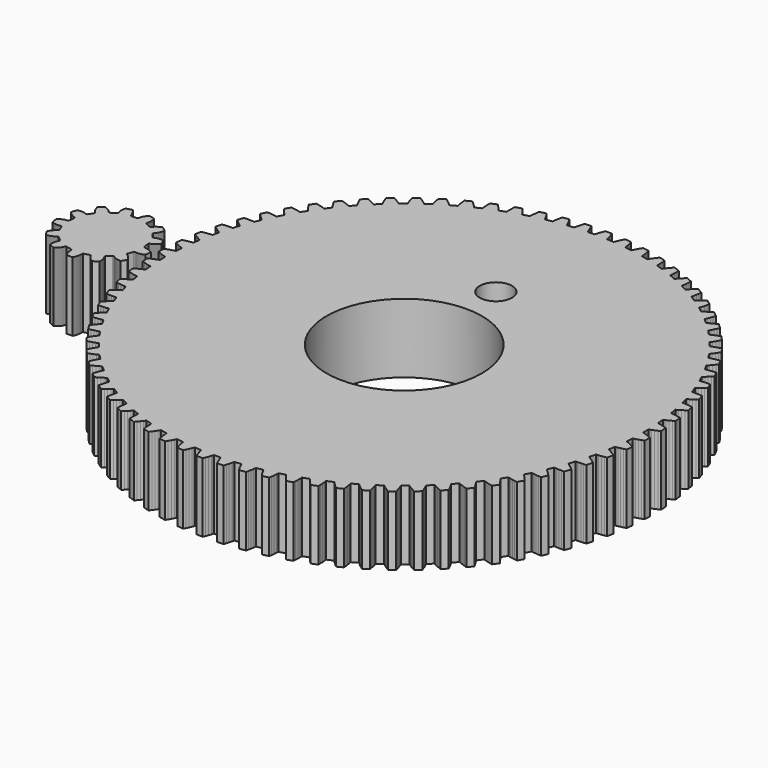
from build123d import *

# Parameters (mm, degrees)
F0_R     = 5.05
F1_DEPTH = 4.5
F3_DEPTH = 4.5


with BuildPart() as f1:
    # F0 (on Top) → F1 (new body)
    with BuildSketch(Plane.XY):
        Polygon((-12.401103, -0.027058), (-12.361855, -0.038794), (-12.354653, -0.473993), (-12.393498, -0.487012), (-12.432322, -0.500425), (-12.50989, -0.528361), (-12.664764, -0.588507), (-12.819233, -0.654066), (-12.973248, -0.724736), (-12.949089, -1.141734), (-12.787943, -1.194143), (-12.626939, -1.241421), (-12.466157, -1.283286), (-12.385872, -1.302072), (-12.345765, -1.310909), (-12.305678, -1.319363), (-12.262572, -1.752471), (-12.300204, -1.768661), (-12.337786, -1.785236), (-12.412789, -1.819475), (-12.562158, -1.892215), (-12.710688, -1.970298), (-12.85834, -2.053441), (-12.799831, -2.467026), (-12.634898, -2.505951), (-12.470551, -2.539766), (-12.30686, -2.568208), (-12.225293, -2.580308), (-12.18459, -2.585802), (-12.143947, -2.590913), (-12.065218, -3.018991), (-12.101386, -3.038231), (-12.137473, -3.057846), (-12.209395, -3.098165), (-12.35225, -3.182985), (-12.493821, -3.273077), (-12.6341, -3.368128), (-12.541635, -3.775461), (-12.374055, -3.80064), (-12.207476, -3.820769), (-12.041998, -3.835596), (-11.959713, -3.840919), (-11.918697, -3.84303), (-11.877762, -3.844767), (-11.763955, -4.264876), (-11.798406, -4.287036), (-11.832756, -4.309569), (-11.901093, -4.355696), (-12.036463, -4.452019), (-12.170106, -4.553484), (-12.302063, -4.659807), (-12.176277, -5.05811), (-12.007193, -5.069362), (-11.839513, -5.075664), (-11.673378, -5.076775), (-11.590932, -5.07529), (-11.549885, -5.074008), (-11.50895, -5.072361), (-11.360834, -5.481634), (-11.393345, -5.506571), (-11.425706, -5.531851), (-11.490013, -5.583462), (-11.616959, -5.690643), (-11.741765, -5.802804), (-11.86449, -5.91965), (-11.706243, -6.306208), (-11.536806, -6.30346), (-11.369186, -6.295896), (-11.203516, -6.283281), (-11.121484, -6.274989), (-11.08068, -6.270322), (-11.040017, -6.265303), (-10.858611, -6.66095), (-10.888951, -6.688483), (-10.91912, -6.716348), (-10.978942, -6.7731), (-11.096607, -6.890392), (-11.211727, -7.01247), (-11.324383, -7.139054), (-11.134755, -7.511229), (-10.966126, -7.494493), (-10.799688, -7.473111), (-10.635633, -7.446861), (-10.554571, -7.431822), (-10.514282, -7.423803), (-10.474185, -7.41544), (-10.260721, -7.794756), (-10.288688, -7.824702), (-10.316443, -7.854972), (-10.371377, -7.916461), (-10.478952, -8.043074), (-10.583598, -8.174243), (-10.685416, -8.309694), (-10.465701, -8.664941), (-10.299031, -8.634339), (-10.134936, -8.599281), (-9.973609, -8.559578), (-9.894051, -8.537894), (-9.85457, -8.526572), (-9.815291, -8.514926), (-9.571245, -8.875324), (-9.596636, -8.907473), (-9.621805, -8.939934), (-9.671467, -9.005746), (-9.768225, -9.140813), (-9.86168, -9.280173), (-9.951964, -9.423573), (-9.703656, -9.759458), (-9.540086, -9.7152), (-9.379446, -9.66671), (-9.221946, -9.613826), (-9.144459, -9.585637), (-9.106049, -9.571103), (-9.067871, -9.556246), (-8.794888, -9.895263), (-8.817532, -9.929391), (-8.839934, -9.963822), (-8.884, -10.033512), (-8.969265, -10.176103), (-9.050893, -10.322715), (-9.129026, -10.473074), (-8.853842, -10.787305), (-8.694484, -10.729695), (-8.538388, -10.668115), (-8.385798, -10.602394), (-8.310906, -10.567913), (-8.273819, -10.550248), (-8.236994, -10.53229), (-7.936954, -10.847602), (-7.956709, -10.883487), (-7.976192, -10.919645), (-8.01434, -10.992739), (-8.087545, -11.141886), (-8.15679, -11.294739), (-8.222238, -11.451037), (-7.922046, -11.741472), (-7.767981, -11.670893), (-7.617511, -11.596628), (-7.470869, -11.518535), (-7.399078, -11.477983), (-7.363587, -11.457319), (-7.328368, -11.436392), (-7.00331, -11.725847), (-7.020035, -11.763248), (-7.036458, -11.80089), (-7.068445, -11.876883), (-7.129085, -12.031564), (-7.185473, -12.189599), (-7.237791, -12.350785), (-6.914632, -12.615435), (-6.766929, -12.532373), (-6.623105, -12.445937), (-6.483412, -12.355997), (-6.415217, -12.309658), (-6.381544, -12.286135), (-6.348183, -12.26236), (-6.000329, -12.52399), (-6.013904, -12.562643), (-6.027175, -12.601507), (-6.052779, -12.679883), (-6.10043, -12.839049), (-6.143578, -13.001205), (-6.182402, -13.166148), (-5.838497, -13.403215), (-5.698157, -13.308235), (-5.561959, -13.210224), (-5.430164, -13.109053), (-5.366029, -13.05724), (-5.334426, -13.03102), (-5.303126, -13.004578), (-4.93486, -13.236575), (-4.945202, -13.276218), (-4.955212, -13.316052), (-4.97426, -13.396276), (-5.00861, -13.558826), (-5.038213, -13.723991), (-5.063282, -13.89159), (-4.700974, -14.099438), (-4.568957, -13.993196), (-4.441324, -13.884268), (-4.318336, -13.772562), (-4.258695, -13.715628), (-4.229365, -13.686884), (-4.200358, -13.657947), (-3.814194, -13.858755), (-3.821224, -13.899115), (-3.82791, -13.939636), (-3.840262, -14.021153), (-3.861068, -14.185985), (-3.876936, -14.353039), (-3.888086, -14.522123), (-3.509851, -14.699348), (-3.387055, -14.582572), (-3.268855, -14.463473), (-3.155513, -14.34199), (-3.100771, -14.280329), (-3.073915, -14.249262), (-3.047402, -14.218033), (-2.645968, -14.386258), (-2.649644, -14.427052), (-2.652957, -14.467998), (-2.658542, -14.550262), (-2.665663, -14.716245), (-2.667683, -14.884037), (-2.664835, -15.053464), (-2.273247, -15.198844), (-2.160521, -15.072331), (-2.052552, -14.943879), (-1.949633, -14.813458), (-1.900174, -14.747485), (-1.875974, -14.714296), (-1.852128, -14.680986), (-1.438179, -14.815488), (-1.438472, -14.856454), (-1.438392, -14.89752), (-1.437159, -14.979966), (-1.430554, -15.14598), (-1.418707, -15.313357), (-1.40188, -15.481977), (-0.999627, -15.594521), (-0.897728, -15.459121), (-0.800738, -15.322195), (-0.708939, -15.183724), (-0.665095, -15.113893), (-0.643724, -15.078825), (-0.622705, -15.043647), (-0.199061, -15.143506), (-0.19597, -15.18436), (-0.192506, -15.225285), (-0.184466, -15.307348), (-0.164176, -15.47224), (-0.138552, -15.638072), (-0.107848, -15.804722), (0.302323, -15.883674), (0.392688, -15.740325), (0.478043, -15.595854), (0.558096, -15.450273), (0.596011, -15.377058), (0.614423, -15.340345), (0.632462, -15.30356), (1.062904, -15.368089), (1.069358, -15.40854), (1.076195, -15.449041), (1.090982, -15.530164), (1.124817, -15.692814), (1.164055, -15.85597), (1.208414, -16.019509), (1.623696, -16.064323), (1.701921, -15.913994), (1.775055, -15.762969), (1.842806, -15.611277), (1.87456, -15.535184), (1.889872, -15.497066), (1.904809, -15.458919), (2.339109, -15.487683), (2.348886, -15.527477), (2.359037, -15.567271), (2.380469, -15.64689), (2.427626, -15.806197), (2.480206, -15.965545), (2.537918, -16.124872), (2.955482, -16.135235), (3.021021, -15.978968), (3.081429, -15.822418), (3.136434, -15.665645), (3.161785, -15.587179), (3.173905, -15.54794), (3.185641, -15.508691), (3.62083, -15.50149), (3.633859, -15.540335), (3.647261, -15.579159), (3.675198, -15.656727), (3.735354, -15.811601), (3.800903, -15.96607), (3.871572, -16.120085), (4.288571, -16.095926), (4.34099, -15.93478), (4.388258, -15.773776), (4.430123, -15.612994), (4.448919, -15.532709), (4.457746, -15.492602), (4.4662, -15.452515), (4.899318, -15.409408), (4.915508, -15.447041), (4.932072, -15.484623), (4.966322, -15.559626), (5.039052, -15.708995), (5.117135, -15.857525), (5.200288, -16.005177), (5.613863, -15.946668), (5.652788, -15.781735), (5.686613, -15.617388), (5.715055, -15.453697), (5.727144, -15.372129), (5.732639, -15.331436), (5.73776, -15.290784), (6.165828, -15.212054), (6.185068, -15.248223), (6.204682, -15.28431), (6.245012, -15.356232), (6.329832, -15.499086), (6.419913, -15.640658), (6.514975, -15.780937), (6.922308, -15.688471), (6.947477, -15.520902), (6.967606, -15.354313), (6.982433, -15.188835), (6.987756, -15.10655), (6.989867, -15.065534), (6.991604, -15.024598), (7.411723, -14.910792), (7.433883, -14.945253), (7.456406, -14.979593), (7.502532, -15.04794), (7.598866, -15.1833), (7.700331, -15.316943), (7.806643, -15.448899), (8.204957, -15.323114), (8.216199, -15.15403), (8.222511, -14.98635), (8.223622, -14.820215), (8.222127, -14.737768), (8.220845, -14.696722), (8.219198, -14.655787), (8.62848, -14.50767), (8.653407, -14.540182), (8.678698, -14.572543), (8.730309, -14.636849), (8.83748, -14.763796), (8.94964, -14.888602), (9.066487, -15.011327), (9.453055, -14.85308), (9.450297, -14.683653), (9.442732, -14.516023), (9.430128, -14.350353), (9.421825, -14.26832), (9.417159, -14.227516), (9.412139, -14.186854), (9.807787, -14.005448), (9.835319, -14.035788), (9.863195, -14.065957), (9.919937, -14.125779), (10.037228, -14.243444), (10.159307, -14.358564), (10.285901, -14.471219), (10.658065, -14.281592), (10.64133, -14.112962), (10.619958, -13.946524), (10.593708, -13.78247), (10.578669, -13.701408), (10.57064, -13.661129), (10.562277, -13.621022), (10.941603, -13.407558), (10.971539, -13.435525), (11.001809, -13.46328), (11.063298, -13.518214), (11.189911, -13.625789), (11.32108, -13.730435), (11.456541, -13.832253), (11.811778, -13.612538), (11.781175, -13.445867), (11.746128, -13.281773), (11.706415, -13.120445), (11.68473, -13.040888), (11.673418, -13.001407), (11.661773, -12.962138), (12.022161, -12.718082), (12.05431, -12.743473), (12.086771, -12.768642), (12.152583, -12.818304), (12.28765, -12.915062), (12.42701, -13.008517), (12.57042, -13.098801), (12.906295, -12.850503), (12.862037, -12.686923), (12.813557, -12.526283), (12.760663, -12.368783), (12.732484, -12.291296), (12.71794, -12.252886), (12.703093, -12.214708), (13.0421, -11.941725), (13.076238, -11.964379), (13.110659, -11.986771), (13.180359, -12.030837), (13.32295, -12.116101), (13.469552, -12.19773), (13.619921, -12.275863), (13.934152, -12.000679), (13.876531, -11.841321), (13.814952, -11.685225), (13.749231, -11.532635), (13.71475, -11.457743), (13.697085, -11.420656), (13.679137, -11.383831), (13.994439, -11.08379), (14.030334, -11.103546), (14.066492, -11.123029), (14.139586, -11.161177), (14.288733, -11.234381), (14.441576, -11.303627), (14.597883, -11.369075), (14.888309, -11.068883), (14.81773, -10.914828), (14.743475, -10.764348), (14.665382, -10.617706), (14.62483, -10.545915), (14.604166, -10.510424), (14.583228, -10.475205), (14.872684, -10.150146), (14.910085, -10.166872), (14.947727, -10.183295), (15.02372, -10.215291), (15.178401, -10.275922), (15.336446, -10.33231), (15.497622, -10.384628), (15.762272, -10.061468), (15.67921, -9.913766), (15.592774, -9.769942), (15.502843, -9.630249), (15.456495, -9.562054), (15.432972, -9.52838), (15.409206, -9.49502), (15.670827, -9.147166), (15.709479, -9.16074), (15.748354, -9.174012), (15.82673, -9.199615), (15.985886, -9.247267), (16.148042, -9.290414), (16.312995, -9.329239), (16.550052, -8.985334), (16.455082, -8.844994), (16.357061, -8.708796), (16.2559, -8.577011), (16.204086, -8.512866), (16.177857, -8.481263), (16.151415, -8.449963), (16.383422, -8.081697), (16.423065, -8.092039), (16.462899, -8.102048), (16.543113, -8.121097), (16.705673, -8.155447), (16.870838, -8.18505), (17.038427, -8.210128), (17.246275, -7.847811), (17.140033, -7.715794), (17.031115, -7.58816), (16.919409, -7.465173), (16.862475, -7.405532), (16.833731, -7.376202), (16.804794, -7.347195), (17.005592, -6.961031), (17.045952, -6.968061), (17.086473, -6.974747), (17.168, -6.987099), (17.332832, -7.007905), (17.499876, -7.023772), (17.66897, -7.034923), (17.846185, -6.656688), (17.729409, -6.533892), (17.610309, -6.415692), (17.488837, -6.30235), (17.427176, -6.247607), (17.396099, -6.220752), (17.364869, -6.194239), (17.533095, -5.792804), (17.573899, -5.796481), (17.614834, -5.799794), (17.697099, -5.805379), (17.863092, -5.812499), (18.030873, -5.81452), (18.200301, -5.811671), (18.34569, -5.420084), (18.219168, -5.307358), (18.090716, -5.199389), (17.960295, -5.09647), (17.894322, -5.04701), (17.861143, -5.022811), (17.827823, -4.998965), (17.962325, -4.585016), (18.00329, -4.585309), (18.044367, -4.585228), (18.126803, -4.583996), (18.292817, -4.577391), (18.460194, -4.565543), (18.628814, -4.548717), (18.741368, -4.146464), (18.605968, -4.044565), (18.469042, -3.947575), (18.330561, -3.855776), (18.260729, -3.811932), (18.225662, -3.79056), (18.190494, -3.769542), (18.290353, -3.345898), (18.331197, -3.342807), (18.372122, -3.339343), (18.454185, -3.331303), (18.619087, -3.311012), (18.784909, -3.285389), (18.951569, -3.254685), (19.030511, -2.844514), (18.887162, -2.754149), (18.742691, -2.668794), (18.59711, -2.588741), (18.523895, -2.550826), (18.487181, -2.532413), (18.450397, -2.514375), (18.514926, -2.083933), (18.555387, -2.077479), (18.595888, -2.070641), (18.677001, -2.055855), (18.839661, -2.02202), (19.002807, -1.982781), (19.166356, -1.938422), (19.211159, -1.523141), (19.060841, -1.444916), (18.909816, -1.371782), (18.758114, -1.304031), (18.68202, -1.272287), (18.643913, -1.256965), (18.605766, -1.242027), (18.63453, -0.807727), (18.674314, -0.79795), (18.714108, -0.7878), (18.793726, -0.766368), (18.953034, -0.719211), (19.112392, -0.66663), (19.271709, -0.608919), (19.282072, -0.191355), (19.125804, -0.125816), (18.969254, -0.065408), (18.812482, -0.010403), (18.734025, 0.014948), (18.694777, 0.027068), (18.655528, 0.038804), (18.648337, 0.473993), (18.687171, 0.487022), (18.725996, 0.500425), (18.803574, 0.528361), (18.958447, 0.588517), (19.112907, 0.654066), (19.266922, 0.724736), (19.242762, 1.141734), (19.081617, 1.194143), (18.920613, 1.241421), (18.759831, 1.283286), (18.679556, 1.302082), (18.639439, 1.310909), (18.599352, 1.319363), (18.556245, 1.752481), (18.593878, 1.768672), (18.63146, 1.785236), (18.706463, 1.819485), (18.855841, 1.892215), (19.004362, 1.970298), (19.152014, 2.053451), (19.093505, 2.467026), (18.928582, 2.505951), (18.764224, 2.539776), (18.600534, 2.568218), (18.518976, 2.580308), (18.478273, 2.585802), (18.437621, 2.590913), (18.358891, 3.018991), (18.395069, 3.038231), (18.431147, 3.057846), (18.503069, 3.098175), (18.645933, 3.182995), (18.787495, 3.273077), (18.927784, 3.368128), (18.835318, 3.775471), (18.667739, 3.80064), (18.50115, 3.820769), (18.335671, 3.835596), (18.253387, 3.840919), (18.212371, 3.84303), (18.171445, 3.844767), (18.057628, 4.264887), (18.09209, 4.287046), (18.12643, 4.309569), (18.194776, 4.355696), (18.330147, 4.45203), (18.46379, 4.553494), (18.595736, 4.659807), (18.469951, 5.05811), (18.300877, 5.069362), (18.133197, 5.075674), (17.967052, 5.076785), (17.884615, 5.07529), (17.843559, 5.074008), (17.802624, 5.072361), (17.654517, 5.481644), (17.687019, 5.506571), (17.719389, 5.531861), (17.783686, 5.583472), (17.910633, 5.690643), (18.035449, 5.802804), (18.158174, 5.91965), (17.999927, 6.306208), (17.830489, 6.30346), (17.66286, 6.295896), (17.4972, 6.283291), (17.415167, 6.274989), (17.374353, 6.270322), (17.333701, 6.265303), (17.152295, 6.66095), (17.182635, 6.688483), (17.212794, 6.716359), (17.272616, 6.7731), (17.390281, 6.890392), (17.505401, 7.01247), (17.618056, 7.139064), (17.428429, 7.511229), (17.259799, 7.494493), (17.093371, 7.473121), (16.929317, 7.446871), (16.848244, 7.431822), (16.807965, 7.423803), (16.767858, 7.41544), (16.554405, 7.794766), (16.582362, 7.824702), (16.610127, 7.854972), (16.66505, 7.916461), (16.772626, 8.043074), (16.877272, 8.174243), (16.97909, 8.309704), (16.759374, 8.664942), (16.592704, 8.634339), (16.42861, 8.599291), (16.267282, 8.559578), (16.187735, 8.537894), (16.148254, 8.526582), (16.108975, 8.514936), (15.864918, 8.875325), (15.89031, 8.907473), (15.915479, 8.939934), (15.965141, 9.005746), (16.061899, 9.140813), (16.155354, 9.280173), (16.245638, 9.423573), (15.99734, 9.759458), (15.83377, 9.7152), (15.673119, 9.66672), (15.51563, 9.613826), (15.438133, 9.585647), (15.399722, 9.571103), (15.361545, 9.556256), (15.088562, 9.895263), (15.111216, 9.929401), (15.133618, 9.963822), (15.177674, 10.033522), (15.262948, 10.176114), (15.344576, 10.322715), (15.42271, 10.473084), (15.147515, 10.787315), (14.988158, 10.729695), (14.832072, 10.668115), (14.679471, 10.602394), (14.60458, 10.567913), (14.567503, 10.550248), (14.530678, 10.5323), (14.230627, 10.847602), (14.250383, 10.883497), (14.269866, 10.919655), (14.308024, 10.992749), (14.381228, 11.141896), (14.450474, 11.294739), (14.515922, 11.451047), (14.21572, 11.741472), (14.061664, 11.670893), (13.911195, 11.596638), (13.764553, 11.518545), (13.692752, 11.477994), (13.65726, 11.457329), (13.622042, 11.436392), (13.296983, 11.725848), (13.313709, 11.763248), (13.330142, 11.800891), (13.362128, 11.876883), (13.422769, 12.031564), (13.479147, 12.189609), (13.531465, 12.350785), (13.208315, 12.615435), (13.060613, 12.532373), (12.916779, 12.445937), (12.777086, 12.356007), (12.708891, 12.309658), (12.675227, 12.286135), (12.641857, 12.26237), (12.294003, 12.52399), (12.307587, 12.562643), (12.320849, 12.601518), (12.346452, 12.679894), (12.394114, 12.839049), (12.437251, 13.001205), (12.476086, 13.166158), (12.13217, 13.403215), (11.991831, 13.308245), (11.855632, 13.210224), (11.723848, 13.109063), (11.659713, 13.05725), (11.6281, 13.03102), (11.59681, 13.004578), (11.228544, 13.236585), (11.238886, 13.276228), (11.248895, 13.316052), (11.267934, 13.396276), (11.302284, 13.558836), (11.331887, 13.724001), (11.356965, 13.891591), (10.994658, 14.099438), (10.862641, 13.993197), (10.734997, 13.884278), (10.61202, 13.772572), (10.552369, 13.715638), (10.523038, 13.686894), (10.494041, 13.657957), (10.107868, 13.858755), (10.114897, 13.899115), (10.121584, 13.939636), (10.133936, 14.021163), (10.154752, 14.185995), (10.170619, 14.353039), (10.181759, 14.522133), (9.803525, 14.699348), (9.680739, 14.582572), (9.562528, 14.463473), (9.449186, 14.342), (9.394454, 14.280329), (9.367588, 14.249262), (9.341076, 14.218033), (8.939651, 14.386258), (8.943328, 14.427062), (8.946641, 14.467998), (8.952216, 14.550262), (8.959346, 14.716245), (8.961356, 14.884037), (8.958508, 15.053464), (8.566931, 15.198854), (8.454195, 15.072331), (8.346236, 14.943879), (8.243307, 14.813458), (8.193857, 14.747485), (8.169648, 14.714296), (8.145812, 14.680986), (7.731853, 14.815488), (7.732146, 14.856454), (7.732075, 14.89752), (7.730843, 14.979967), (7.724238, 15.14598), (7.71239, 15.313357), (7.695554, 15.481977), (7.293301, 15.594521), (7.191412, 15.459131), (7.094422, 15.322205), (7.002613, 15.183724), (6.958779, 15.113893), (6.937397, 15.078825), (6.916389, 15.043657), (6.492745, 15.143516), (6.489654, 15.18436), (6.48618, 15.225285), (6.47815, 15.307348), (6.457859, 15.472251), (6.432225, 15.638072), (6.401521, 15.804732), (5.99136, 15.883674), (5.900986, 15.740325), (5.815641, 15.595854), (5.735588, 15.450273), (5.697662, 15.377058), (5.67925, 15.340345), (5.661222, 15.30356), (5.23077, 15.368089), (5.224316, 15.40855), (5.217478, 15.449051), (5.202702, 15.530164), (5.168857, 15.692825), (5.129618, 15.85597), (5.085269, 16.019519), (4.669977, 16.064323), (4.591763, 15.914004), (4.518629, 15.762979), (4.450868, 15.611277), (4.419124, 15.535184), (4.403802, 15.497076), (4.388874, 15.458929), (3.954564, 15.487693), (3.944797, 15.527477), (3.934637, 15.567271), (3.913205, 15.64689), (3.866048, 15.806197), (3.813477, 15.965555), (3.755766, 16.124872), (3.338191, 16.135235), (3.272652, 15.978968), (3.212244, 15.822418), (3.15725, 15.665645), (3.131889, 15.587189), (3.119779, 15.54794), (3.108043, 15.508691), (2.672844, 15.5015), (2.659825, 15.540335), (2.646412, 15.579159), (2.618475, 15.656737), (2.55833, 15.811611), (2.492771, 15.96607), (2.422101, 16.120085), (2.005102, 16.095926), (1.952694, 15.93478), (1.905415, 15.773776), (1.863551, 15.612994), (1.844765, 15.532719), (1.835928, 15.492602), (1.827474, 15.452515), (1.394366, 15.409408), (1.378175, 15.447041), (1.361601, 15.484623), (1.327362, 15.559626), (1.254622, 15.709005), (1.176539, 15.857525), (1.093396, 16.005177), (0.679811, 15.946668), (0.640885, 15.781745), (0.607071, 15.617388), (0.578629, 15.453697), (0.566529, 15.372139), (0.561035, 15.331436), (0.555924, 15.290784), (0.127846, 15.212054), (0.108605, 15.248223), (0.088991, 15.28431), (0.048672, 15.356232), (-0.036148, 15.499086), (-0.12623, 15.640658), (-0.221291, 15.780937), (-0.628624, 15.688471), (-0.653803, 15.520902), (-0.673933, 15.354313), (-0.688759, 15.188835), (-0.694082, 15.10655), (-0.696193, 15.065534), (-0.69793, 15.024609), (-1.11804, 14.910792), (-1.140199, 14.945253), (-1.162732, 14.979593), (-1.208859, 15.04794), (-1.305183, 15.1833), (-1.406647, 15.316953), (-1.51297, 15.448899), (-1.911274, 15.323114), (-1.922525, 15.15403), (-1.928827, 14.98635), (-1.929938, 14.820215), (-1.928454, 14.737779), (-1.927171, 14.696722), (-1.925525, 14.655787), (-2.334797, 14.50768), (-2.359734, 14.540182), (-2.385014, 14.572553), (-2.436625, 14.636849), (-2.543806, 14.763796), (-2.655957, 14.888612), (-2.772814, 15.011337), (-3.159371, 14.85308), (-3.156624, 14.683653), (-3.149059, 14.516023), (-3.136444, 14.350363), (-3.128152, 14.268331), (-3.123486, 14.227517), (-3.118466, 14.186864), (-3.514113, 14.005458), (-3.541636, 14.035798), (-3.569512, 14.065957), (-3.626254, 14.125779), (-3.743555, 14.243444), (-3.865634, 14.358564), (-3.992217, 14.471219), (-4.364392, 14.281592), (-4.347656, 14.112962), (-4.326274, 13.946535), (-4.300025, 13.78248), (-4.284986, 13.701408), (-4.276966, 13.661129), (-4.268603, 13.621022), (-4.647919, 13.407558), (-4.677866, 13.435525), (-4.708135, 13.46329), (-4.769624, 13.518214), (-4.896238, 13.625789), (-5.027406, 13.730435), (-5.162857, 13.832253), (-5.518105, 13.612538), (-5.487502, 13.445867), (-5.452445, 13.281773), (-5.412742, 13.120445), (-5.391057, 13.040898), (-5.379735, 13.001417), (-5.368089, 12.962138), (-5.728488, 12.718082), (-5.760636, 12.743473), (-5.793087, 12.768642), (-5.858909, 12.818304), (-5.993966, 12.915062), (-6.133336, 13.008517), (-6.276736, 13.098801), (-6.612622, 12.850503), (-6.568353, 12.686933), (-6.519873, 12.526283), (-6.46698, 12.368783), (-6.438801, 12.291296), (-6.424267, 12.252886), (-6.40941, 12.214708), (-6.748426, 11.941725), (-6.782554, 11.964379), (-6.816985, 11.986781), (-6.886675, 12.030837), (-7.029267, 12.116112), (-7.175868, 12.19774), (-7.326237, 12.275873), (-7.640468, 12.000679), (-7.582858, 11.841321), (-7.521268, 11.685235), (-7.455557, 11.532635), (-7.421066, 11.457743), (-7.403411, 11.420666), (-7.385453, 11.383841), (-7.700765, 11.083791), (-7.736651, 11.103546), (-7.772809, 11.123029), (-7.845902, 11.161187), (-7.995049, 11.234392), (-8.147892, 11.303637), (-8.3042, 11.369085), (-8.594635, 11.068883), (-8.524057, 10.914828), (-8.449791, 10.764358), (-8.371698, 10.617706), (-8.331147, 10.545915), (-8.310482, 10.510424), (-8.289555, 10.475205), (-8.579011, 10.150147), (-8.616401, 10.166872), (-8.654044, 10.183305), (-8.730046, 10.215292), (-8.884728, 10.275932), (-9.042762, 10.33231), (-9.203948, 10.384628), (-9.468599, 10.061479), (-9.385536, 9.913776), (-9.2991, 9.769942), (-9.20916, 9.630249), (-9.162821, 9.562054), (-9.139298, 9.528391), (-9.115523, 9.49502), (-9.377153, 9.147166), (-9.415806, 9.160751), (-9.454671, 9.174012), (-9.533047, 9.199615), (-9.692213, 9.247267), (-9.854368, 9.290414), (-10.019311, 9.329239), (-10.256378, 8.985334), (-10.161398, 8.844994), (-10.063387, 8.708796), (-9.962216, 8.577011), (-9.910403, 8.512866), (-9.884183, 8.481263), (-9.857741, 8.449973), (-10.089738, 8.081707), (-10.129381, 8.092049), (-10.169215, 8.102048), (-10.24944, 8.121097), (-10.411989, 8.155447), (-10.577154, 8.18505), (-10.744744, 8.210128), (-10.952602, 7.847821), (-10.84636, 7.715804), (-10.737431, 7.58816), (-10.625725, 7.465173), (-10.568792, 7.405532), (-10.540047, 7.376202), (-10.51111, 7.347205), (-10.711909, 6.961031), (-10.752268, 6.968061), (-10.792799, 6.974747), (-10.874317, 6.987099), (-11.039149, 7.007915), (-11.206203, 7.023772), (-11.375287, 7.034923), (-11.552511, 6.656688), (-11.435735, 6.533902), (-11.316636, 6.415692), (-11.195153, 6.30235), (-11.133493, 6.247618), (-11.102425, 6.220752), (-11.071186, 6.194239), (-11.239411, 5.792815), (-11.280215, 5.796481), (-11.321161, 5.799804), (-11.403415, 5.805379), (-11.569409, 5.81251), (-11.7372, 5.81452), (-11.906627, 5.811671), (-12.052007, 5.420094), (-11.925484, 5.307358), (-11.797042, 5.199389), (-11.666611, 5.09647), (-11.600638, 5.04701), (-11.567459, 5.022811), (-11.53415, 4.998965), (-11.668641, 4.585016), (-11.709617, 4.585309), (-11.750683, 4.585238), (-11.83313, 4.584006), (-11.999143, 4.577401), (-12.166521, 4.565553), (-12.33514, 4.548717), (-12.447684, 4.146464), (-12.312284, 4.044575), (-12.175358, 3.947575), (-12.036887, 3.855776), (-11.967056, 3.811942), (-11.931989, 3.79056), (-11.89681, 3.769552), (-11.996669, 3.345908), (-12.037523, 3.342817), (-12.078449, 3.339343), (-12.160511, 3.331313), (-12.325404, 3.311022), (-12.491236, 3.285389), (-12.657886, 3.254685), (-12.736837, 2.844524), (-12.593488, 2.754149), (-12.449018, 2.668804), (-12.303436, 2.588751), (-12.230221, 2.550826), (-12.193508, 2.532413), (-12.156714, 2.514375), (-12.221253, 2.083933), (-12.261703, 2.077479), (-12.302204, 2.070641), (-12.383317, 2.055855), (-12.545978, 2.02202), (-12.709133, 1.982782), (-12.872672, 1.938432), (-12.917486, 1.523141), (-12.767158, 1.444916), (-12.616132, 1.371792), (-12.46444, 1.304031), (-12.388347, 1.272287), (-12.35023, 1.256965), (-12.312082, 1.242037), (-12.340847, 0.807727), (-12.380641, 0.797961), (-12.420435, 0.7878), (-12.500053, 0.766368), (-12.65936, 0.719211), (-12.818708, 0.66664), (-12.978035, 0.608929), (-12.988398, 0.191355), (-12.832131, 0.125816), (-12.675581, 0.065408), (-12.518799, 0.010413), (-12.440342, -0.014948), align=None)
        with Locations((3.146842, 0)):
            Circle(F0_R, mode=Mode.SUBTRACT)
        Polygon((-13.87236, 0.139239), (-13.884531, 0.165751), (-13.936798, 0.523705), (-13.932718, 0.552591), (-13.924961, 0.565186), (-13.916558, 0.574892), (-13.907781, 0.583033), (-13.898762, 0.590103), (-13.88954, 0.596395), (-13.870694, 0.607202), (-13.851393, 0.616221), (-13.831748, 0.623847), (-13.791904, 0.636906), (-13.75317, 0.654268), (-13.715366, 0.675044), (-13.678299, 0.698445), (-13.641929, 0.724119), (-13.606225, 0.751854), (-13.571178, 0.781498), (-13.536788, 0.812939), (-13.503084, 0.846087), (-13.470067, 0.880882), (-13.437747, 0.917262), (-13.406164, 0.955167), (-13.553857, 1.317919), (-13.602943, 1.322989), (-13.651473, 1.326443), (-13.699408, 1.328281), (-13.746686, 1.328453), (-13.793247, 1.326938), (-13.83903, 1.323666), (-13.883955, 1.318575), (-13.92792, 1.311546), (-13.970795, 1.302405), (-14.012356, 1.290851), (-14.052211, 1.276226), (-14.089843, 1.257743), (-14.109225, 1.249471), (-14.129334, 1.242452), (-14.150373, 1.237018), (-14.161362, 1.235078), (-14.172764, 1.233846), (-14.184723, 1.233533), (-14.19752, 1.234604), (-14.211862, 1.238199), (-14.23496, 1.256026), (-14.447596, 1.548684), (-14.457403, 1.576166), (-14.456393, 1.590912), (-14.453464, 1.603415), (-14.449474, 1.614697), (-14.444768, 1.625161), (-14.439536, 1.635008), (-14.42787, 1.65334), (-14.414973, 1.670288), (-14.401115, 1.686175), (-14.371906, 1.716253), (-14.345676, 1.749633), (-14.321851, 1.785599), (-14.299913, 1.823545), (-14.279643, 1.863177), (-14.260907, 1.904335), (-14.243656, 1.946866), (-14.22782, 1.99068), (-14.213387, 2.035705), (-14.200317, 2.081852), (-14.188601, 2.12908), (-14.178249, 2.177328), (-14.477613, 2.429888), (-14.523426, 2.411567), (-14.568008, 2.392074), (-14.611296, 2.371419), (-14.653242, 2.349603), (-14.693773, 2.326626), (-14.732789, 2.302457), (-14.7702, 2.277065), (-14.805863, 2.250411), (-14.839577, 2.222394), (-14.871018, 2.192851), (-14.8995, 2.16138), (-14.924235, 2.127525), (-14.937557, 2.111193), (-14.952091, 2.095629), (-14.9682, 2.081034), (-14.977027, 2.074217), (-14.986552, 2.067824), (-14.996995, 2.061996), (-15.008832, 2.056996), (-15.023195, 2.053512), (-15.051929, 2.058562), (-15.37622, 2.218889), (-15.397672, 2.238655), (-15.403631, 2.252189), (-15.406843, 2.264622), (-15.40856, 2.276459), (-15.409257, 2.287913), (-15.409196, 2.299063), (-15.407388, 2.320717), (-15.403843, 2.341725), (-15.398955, 2.362218), (-15.387067, 2.402437), (-15.379361, 2.44417), (-15.374978, 2.487095), (-15.37318, 2.530888), (-15.373654, 2.575409), (-15.37619, 2.620546), (-15.380684, 2.666228), (-15.387027, 2.712385), (-15.395157, 2.758956), (-15.405035, 2.805901), (-15.41662, 2.853159), (-15.429871, 2.90069), (-15.812318, 2.985207), (-15.844365, 2.947685), (-15.874776, 2.909709), (-15.903511, 2.871299), (-15.930518, 2.832495), (-15.955717, 2.793306), (-15.979038, 2.753775), (-16.00037, 2.71391), (-16.01956, 2.673733), (-16.036386, 2.633252), (-16.050496, 2.592488), (-16.061091, 2.551391), (-16.067262, 2.509911), (-16.071463, 2.489256), (-16.077099, 2.468723), (-16.084583, 2.448321), (-16.089229, 2.43818), (-16.094693, 2.428091), (-16.101228, 2.418071), (-16.109389, 2.408153), (-16.120489, 2.398386), (-16.148284, 2.389508), (-16.509925, 2.380762), (-16.538114, 2.388296), (-16.549678, 2.397508), (-16.558304, 2.407022), (-16.565323, 2.416718), (-16.571262, 2.426525), (-16.576393, 2.436433), (-16.584846, 2.456451), (-16.591472, 2.476692), (-16.596673, 2.497114), (-16.604834, 2.538241), (-16.617409, 2.578783), (-16.633468, 2.618829), (-16.652234, 2.658441), (-16.673343, 2.697639), (-16.696573, 2.736433), (-16.721772, 2.774793), (-16.74884, 2.812709), (-16.777686, 2.850169), (-16.808248, 2.887146), (-16.840457, 2.923607), (-16.874282, 2.959532), (-17.252194, 2.856644), (-17.263142, 2.808527), (-17.272424, 2.760764), (-17.280019, 2.713405), (-17.285898, 2.666491), (-17.289998, 2.620081), (-17.292271, 2.574238), (-17.292634, 2.52903), (-17.290948, 2.484529), (-17.287049, 2.440877), (-17.280595, 2.398215), (-17.270879, 2.356896), (-17.257062, 2.317314), (-17.251194, 2.297073), (-17.246639, 2.276267), (-17.243781, 2.254724), (-17.243185, 2.243584), (-17.243326, 2.23212), (-17.244467, 2.220202), (-17.247073, 2.207628), (-17.252376, 2.193821), (-17.272848, 2.173045), (-17.589009, 1.997235), (-17.61746, 1.990811), (-17.631984, 1.993589), (-17.644044, 1.998012), (-17.65476, 2.003335), (-17.664577, 2.009254), (-17.673727, 2.015637), (-17.690524, 2.029433), (-17.705795, 2.04428), (-17.719884, 2.059946), (-17.746225, 2.092579), (-17.776202, 2.122626), (-17.809027, 2.150613), (-17.844054, 2.176974), (-17.880959, 2.201871), (-17.919561, 2.225424), (-17.959699, 2.247684), (-18.001291, 2.268682), (-18.044236, 2.288448), (-18.088484, 2.306981), (-18.133954, 2.324293), (-18.180596, 2.340392), (-18.467406, 2.073651), (-18.45473, 2.025969), (-18.440752, 1.979358), (-18.42547, 1.933897), (-18.408876, 1.889629), (-18.390939, 1.846623), (-18.371648, 1.804971), (-18.350963, 1.764773), (-18.328793, 1.726161), (-18.305048, 1.689316), (-18.279505, 1.654552), (-18.2517, 1.622474), (-18.221077, 1.593841), (-18.206472, 1.57865), (-18.192766, 1.562339), (-18.180222, 1.544593), (-18.174526, 1.535008), (-18.169324, 1.524787), (-18.164789, 1.513717), (-18.161254, 1.501365), (-18.159537, 1.48668), (-18.168011, 1.458763), (-18.366254, 1.156167), (-18.388464, 1.13725), (-18.402614, 1.132968), (-18.41534, 1.131281), (-18.427309, 1.131008), (-18.438752, 1.131695), (-18.449822, 1.133089), (-18.471102, 1.137502), (-18.491524, 1.143552), (-18.51128, 1.150875), (-18.549771, 1.16752), (-18.590272, 1.180205), (-18.632349, 1.18973), (-18.675617, 1.196789), (-18.719865, 1.201688), (-18.764982, 1.204607), (-18.810876, 1.205657), (-18.857458, 1.20492), (-18.904665, 1.202466), (-18.952458, 1.198314), (-19.000766, 1.192517), (-19.049549, 1.185084), (-19.179547, 0.815626), (-19.146166, 0.779286), (-19.112129, 0.744511), (-19.077466, 0.711353), (-19.042197, 0.679871), (-19.006342, 0.650127), (-18.969901, 0.62221), (-18.932894, 0.596233), (-18.895322, 0.572347), (-18.857175, 0.550763), (-18.818401, 0.531836), (-18.77888, 0.516363), (-18.738449, 0.505242), (-18.718461, 0.498576), (-18.698746, 0.490507), (-18.679395, 0.480619), (-18.66989, 0.474781), (-18.660538, 0.468145), (-18.651377, 0.460449), (-18.642509, 0.451157), (-18.634157, 0.438956), (-18.628682, 0.410302), (-18.663598, 0.050237), (-18.674476, 0.023169), (-18.68502, 0.012797), (-18.695504, 0.005383), (-18.705968, -0.000414), (-18.716421, -0.005131), (-18.726875, -0.009029), (-18.747772, -0.015019), (-18.768658, -0.01915), (-18.789555, -0.021856), (-18.831369, -0.024997), (-18.873133, -0.032593), (-18.914815, -0.043713), (-18.956407, -0.05756), (-18.997868, -0.073791), (-19.039167, -0.092173), (-19.080294, -0.112564), (-19.121199, -0.134865), (-19.161861, -0.158984), (-19.202251, -0.18487), (-19.242328, -0.212454), (-19.282072, -0.241703), (-19.225481, -0.62926), (-19.179031, -0.645925), (-19.132743, -0.660893), (-19.086637, -0.674145), (-19.040772, -0.685628), (-18.995201, -0.695304), (-18.949963, -0.703091), (-18.90513, -0.708889), (-18.86076, -0.712585), (-18.816946, -0.713969), (-18.773819, -0.712707), (-18.731632, -0.70804), (-18.690666, -0.699102), (-18.66987, -0.695708), (-18.64866, -0.693698), (-18.626935, -0.693456), (-18.615805, -0.694213), (-18.604442, -0.695738), (-18.592757, -0.698304), (-18.580586, -0.702404), (-18.567517, -0.709333), (-18.549357, -0.732159), (-18.412936, -1.067206), (-18.409987, -1.096234), (-18.414502, -1.110313), (-18.42034, -1.121746), (-18.426915, -1.131745), (-18.433985, -1.140775), (-18.441418, -1.149087), (-18.457144, -1.164096), (-18.473718, -1.177468), (-18.490969, -1.189568), (-18.526531, -1.211788), (-18.559982, -1.237917), (-18.591727, -1.267136), (-18.622107, -1.298729), (-18.651276, -1.332362), (-18.679314, -1.367843), (-18.70624, -1.405011), (-18.732106, -1.443765), (-18.756902, -1.484013), (-18.780627, -1.525696), (-18.803301, -1.568752), (-18.824895, -1.613121), (-18.594676, -1.929989), (-18.545812, -1.923151), (-18.497857, -1.914899), (-18.450882, -1.905203), (-18.404937, -1.894063), (-18.360093, -1.881448), (-18.316421, -1.867318), (-18.274021, -1.851623), (-18.233015, -1.834271), (-18.193574, -1.815142), (-18.155982, -1.793982), (-18.120794, -1.770247), (-18.088676, -1.74329), (-18.071829, -1.730615), (-18.053992, -1.71898), (-18.034863, -1.708667), (-18.024662, -1.704163), (-18.013885, -1.700234), (-18.002341, -1.697073), (-17.989655, -1.695053), (-17.974879, -1.695113), (-17.948185, -1.70689), (-17.671687, -1.940159), (-17.655588, -1.96449), (-17.653043, -1.979055), (-17.652901, -1.991902), (-17.654073, -2.00381), (-17.656133, -2.015091), (-17.65886, -2.025898), (-17.665799, -2.046492), (-17.674263, -2.066036), (-17.683918, -2.084771), (-17.705078, -2.12097), (-17.722551, -2.159653), (-17.737085, -2.200275), (-17.749306, -2.242372), (-17.759497, -2.285711), (-17.767839, -2.330151), (-17.774414, -2.375571), (-17.779303, -2.421909), (-17.782545, -2.469076), (-17.784191, -2.517011), (-17.784252, -2.565673), (-17.782757, -2.614991), (-17.431661, -2.78858), (-17.391564, -2.759815), (-17.352941, -2.730222), (-17.315844, -2.699811), (-17.280343, -2.668592), (-17.246497, -2.636575), (-17.21439, -2.60377), (-17.18414, -2.570167), (-17.1559, -2.535746), (-17.129873, -2.500477), (-17.10641, -2.464269), (-17.086291, -2.426899), (-17.070374, -2.388105), (-17.061344, -2.369066), (-17.050961, -2.350472), (-17.038811, -2.332454), (-17.031872, -2.323717), (-17.024156, -2.315233), (-17.015409, -2.307072), (-17.005118, -2.299386), (-16.991998, -2.292569), (-16.962889, -2.290589), (-16.609662, -2.368652), (-16.584099, -2.382711), (-16.57508, -2.394417), (-16.568979, -2.405729), (-16.564485, -2.416819), (-16.561071, -2.427767), (-16.558455, -2.438605), (-16.555031, -2.460067), (-16.553445, -2.481307), (-16.553284, -2.502376), (-16.555203, -2.544271), (-16.552698, -2.58664), (-16.546679, -2.629363), (-16.537942, -2.672308), (-16.526832, -2.715425), (-16.513561, -2.758643), (-16.498269, -2.801932), (-16.481069, -2.84522), (-16.46202, -2.888499), (-16.441204, -2.931707), (-16.418651, -2.974824), (-16.394401, -3.017799), (-16.002844, -3.008336), (-15.980705, -2.964239), (-15.960262, -2.920082), (-15.941557, -2.875914), (-15.92462, -2.831777), (-15.90953, -2.787701), (-15.89635, -2.743726), (-15.885179, -2.699922), (-15.87617, -2.65632), (-15.869514, -2.612991), (-15.865565, -2.570026), (-15.86511, -2.527586), (-15.869059, -2.485842), (-15.869908, -2.464784), (-15.869352, -2.443493), (-15.866969, -2.421889), (-15.864888, -2.410931), (-15.862, -2.399831), (-15.85805, -2.388539), (-15.852506, -2.376954), (-15.844052, -2.364824), (-15.819196, -2.349543), (-15.47016, -2.254512), (-15.440991, -2.255077), (-15.427558, -2.261259), (-15.416903, -2.26843), (-15.407772, -2.276166), (-15.399652, -2.284266), (-15.392299, -2.292649), (-15.3793, -2.310062), (-15.368019, -2.328131), (-15.35809, -2.346715), (-15.340314, -2.384701), (-15.318407, -2.421051), (-15.293228, -2.456088), (-15.265534, -2.490054), (-15.235658, -2.523071), (-15.203823, -2.555169), (-15.17017, -2.586388), (-15.13482, -2.616728), (-15.097844, -2.6462), (-15.059322, -2.674783), (-15.019316, -2.702477), (-14.977876, -2.729262), (-14.635567, -2.538918), (-14.636466, -2.489579), (-14.638879, -2.440988), (-14.642839, -2.393185), (-14.648363, -2.34623), (-14.655474, -2.300184), (-14.664241, -2.255128), (-14.674714, -2.211153), (-14.686996, -2.168349), (-14.701237, -2.126898), (-14.71771, -2.087024), (-14.737031, -2.049229), (-14.759918, -2.014102), (-14.770462, -1.995851), (-14.779865, -1.976742), (-14.787794, -1.956511), (-14.791036, -1.945836), (-14.793642, -1.934665), (-14.795389, -1.922828), (-14.795864, -1.909991), (-14.794026, -1.895326), (-14.779118, -1.870247), (-14.514215, -1.623888), (-14.488127, -1.610839), (-14.473361, -1.610061), (-14.460594, -1.611465), (-14.448909, -1.614071), (-14.43796, -1.617475), (-14.427557, -1.621484), (-14.407943, -1.630857), (-14.389571, -1.641614), (-14.372128, -1.653451), (-14.338748, -1.678832), (-14.302459, -1.70084), (-14.263877, -1.720151), (-14.223567, -1.737362), (-14.181774, -1.752714), (-14.138667, -1.766338), (-14.094358, -1.778347), (-14.048949, -1.788781), (-14.002519, -1.797689), (-13.95513, -1.805102), (-13.906842, -1.811031), (-13.857695, -1.815485), (-13.64306, -1.487871), (-13.666775, -1.444603), (-13.691499, -1.402688), (-13.717214, -1.362207), (-13.743929, -1.323191), (-13.771623, -1.28573), (-13.800327, -1.249915), (-13.830041, -1.215828), (-13.860796, -1.183649), (-13.892671, -1.153561), (-13.925789, -1.125908), (-13.960462, -1.101425), (-13.997055, -1.080952), (-14.014871, -1.069691), (-14.032082, -1.057137), (-14.048504, -1.042906), (-14.056332, -1.034967), (-14.063826, -1.026291), (-14.070876, -1.016615), (-14.077269, -1.005475), (-14.08245, -0.991628), (-14.080905, -0.96249), (-13.960836, -0.621251), (-13.943797, -0.597566), (-13.931092, -0.590022), (-13.919133, -0.585335), (-13.907579, -0.582204), (-13.896297, -0.580134), (-13.885217, -0.578841), (-13.863502, -0.578033), (-13.842232, -0.579023), (-13.821295, -0.581406), (-13.779935, -0.588355), (-13.737576, -0.590971), (-13.694439, -0.590153), (-13.650746, -0.586658), (-13.606609, -0.580821), (-13.562098, -0.572862), (-13.517295, -0.562893), (-13.472239, -0.551036), (-13.426991, -0.53735), (-13.381581, -0.521887), (-13.33606, -0.504697), (-13.290479, -0.48581), (-13.252675, -0.09597), (-13.293782, -0.06867), (-13.335151, -0.043056), (-13.376743, -0.01916), (-13.418517, 0.002969), (-13.460452, 0.02327), (-13.502518, 0.041652), (-13.544656, 0.058014), (-13.586853, 0.072225), (-13.629061, 0.084052), (-13.671239, 0.093142), (-13.713315, 0.098707), (-13.75523, 0.099828), (-13.776238, 0.101515), (-13.797307, 0.104636), (-13.818467, 0.109605), (-13.829092, 0.112999), (-13.839757, 0.1172), (-13.850494, 0.122493), (-13.861331, 0.129391), align=None)
    extrude(amount=-F1_DEPTH)

    # F2 (on face) → F3 (cut, through all)
    with BuildSketch(Plane.XY):
        with BuildLine():
            ThreePointArc((4.196842, 7.45), (2.40438, 8.192462), (3.146842, 6.4))
            ThreePointArc((3.146842, 6.4), (3.889304, 6.707538), (4.196842, 7.45))
        make_face()
    extrude(amount=-F3_DEPTH, mode=Mode.SUBTRACT)


solid = f1.part
